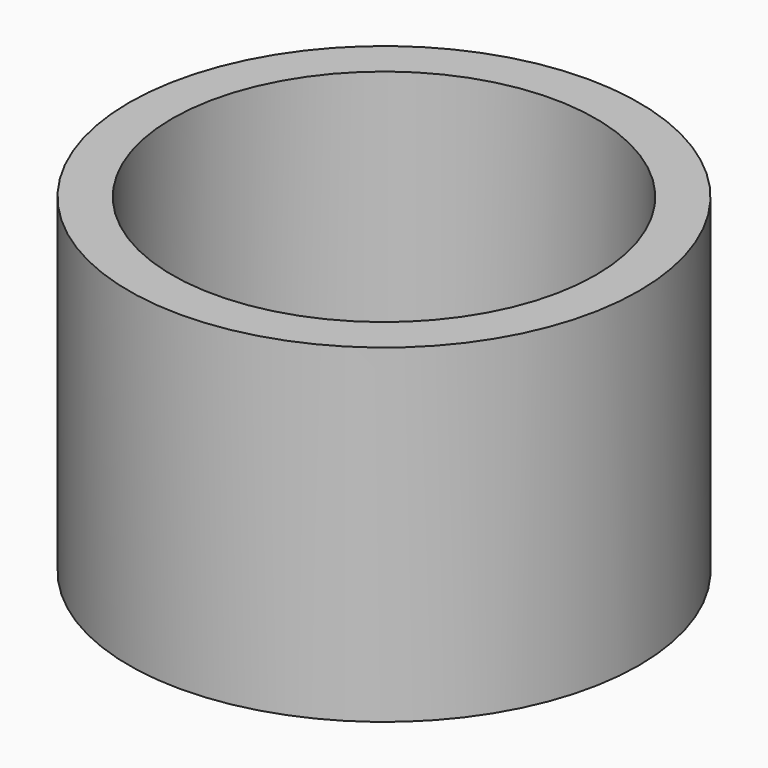
from build123d import *

# Parameters (mm, degrees)
F0_R     = 58.9489571111
F0_R_2   = 48.9787868108
F1_DEPTH = 25.4
F2_DEPTH = 25.4
F3_DEPTH = 25.4


with BuildPart() as f1:
    # F0 (on Top) → F1 (new body)
    with BuildSketch(Plane.XY):
        Circle(F0_R)
        Circle(F0_R_2, mode=Mode.SUBTRACT)
    extrude(amount=F1_DEPTH)

    # F2 (add): faces of the model
    f2_faces = [f1.faces().sort_by_distance(p)[0] for p in [
        (-57.2816288184, 0, 25.4),
        (-57.2816288184, 0, 0),
    ]]
    extrude(f2_faces, amount=F2_DEPTH, dir=(0, 0, 1))

    # F3 (add): a face of the model
    f3_faces = [f1.faces().sort_by_distance(p)[0] for p in [
        (-57.2816288184, 0, 50.8),
    ]]
    extrude(f3_faces, amount=F3_DEPTH)


solid = f1.part
